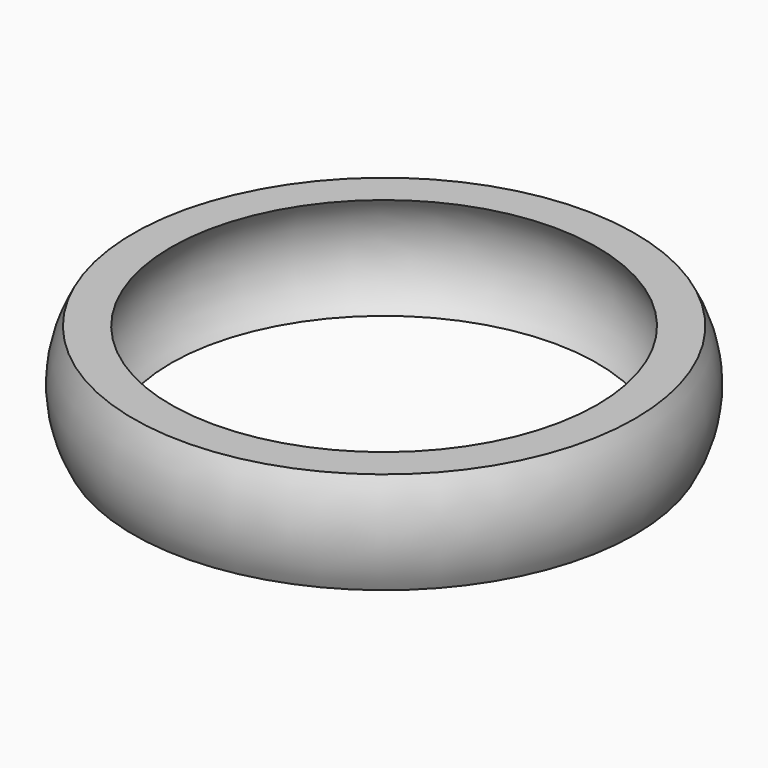
from build123d import *


with BuildPart() as part:
    # Sketch → Revolution (revolve)
    with BuildSketch(Plane.XZ):
        with BuildLine():
            ThreePointArc((24.597765, -5), (25.9, 0), (24.597765, 5))
            Line((24.597765, 5), (20.9, 5))
            ThreePointArc((20.9, -5), (22.9, 0), (20.9, 5))
            Line((24.597765, -5), (20.9, -5))
        make_face()
    revolve(axis=Axis((0, 0, 0), (0, 0, 1)))


solid = part.part
